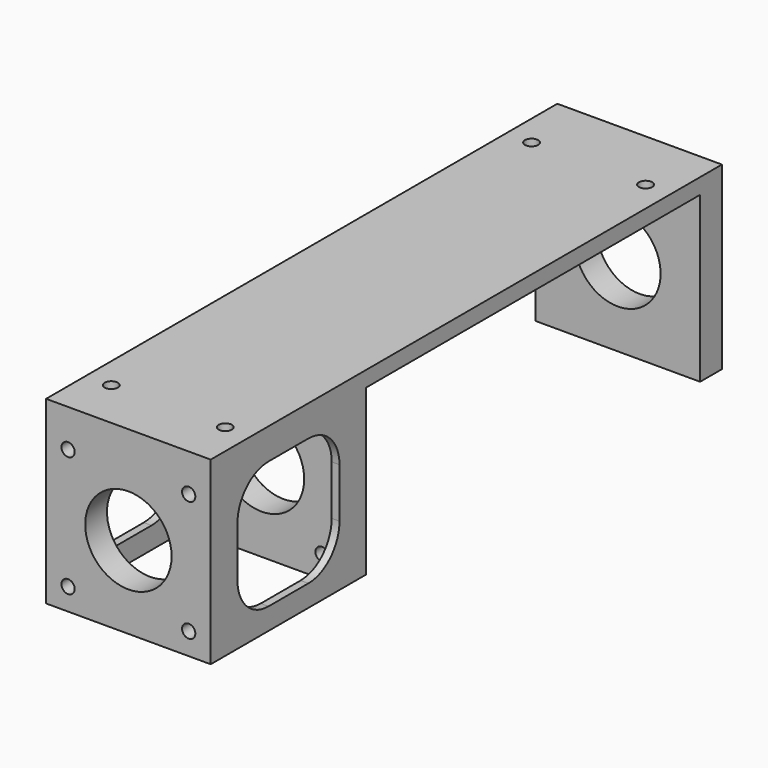
from build123d import *

# Parameters (mm, degrees)
SKETCH029_W             = 42.3
SKETCH029_H             = 164.206055
PAD013_DEPTH            = 4
SKETCH030_W             = 42.3
SKETCH030_H             = 7
PAD014_DEPTH            = 42.3
SKETCH125_W             = 2
SKETCH125_H             = 35.8216107414
PAD049_DEPTH            = 42.3
SKETCH126_R             = 1.7
SKETCH126_R_2           = 10.9177905076
POCKET019_DEPTH         = 7
SKETCH127_R             = 1.7
SKETCH127_R_2           = 11.1
POCKET020_DEPTH         = 7
POCKET021_DEPTH         = 45
SKETCH129_R             = 11
POCKET022_DEPTH         = 7
SKETCH133_R             = 1.7
POCKET026_DEPTH         = 5
BODY025_PITCH_ANGLE     = 90
BODY025_PLACEMENT_ANGLE = -90


with BuildPart() as part:
    # Sketch029 → Pad013 (new body)
    with BuildSketch(Plane.YZ):
        with Locations((0, 4.8969725)):
            Rectangle(SKETCH029_W, SKETCH029_H)
    extrude(amount=PAD013_DEPTH)

    # Sketch030 (on Face6 of Pad013) → Pad014 (join)
    with BuildSketch(Plane.YZ.offset(4)):
        with Locations((0, 40.6783892586)):
            Rectangle(SKETCH030_W, SKETCH030_H)
        with Locations((0, 83.5)):
            Rectangle(SKETCH030_W, SKETCH030_H)
        with Locations((0, -73.706055)):
            Rectangle(SKETCH030_W, SKETCH030_H)
    extrude(amount=PAD014_DEPTH)

    # Sketch125 → Pad049 (join)
    with BuildSketch(Plane.YZ.offset(4)):
        with Locations((-20.15, 62.0891946293)):
            Rectangle(SKETCH125_W, SKETCH125_H)
        with Locations((20.15, 62.0891946293)):
            Rectangle(SKETCH125_W, SKETCH125_H)
    extrude(amount=PAD049_DEPTH)

    # Sketch126 (on Face20 of Pad049) → Pocket019 (cut)
    with BuildSketch(Plane.YX.offset(-37.1783892586)):
        with Locations((-15.5, 40.65)):
            Circle(SKETCH126_R)
        with Locations((15.5, 40.65)):
            Circle(SKETCH126_R)
        with Locations((15.5, 9.65)):
            Circle(SKETCH126_R)
        with Locations((-15.5, 9.65)):
            Circle(SKETCH126_R)
        with Locations((0, 25.15)):
            Circle(SKETCH126_R_2)
    extrude(amount=-POCKET019_DEPTH, mode=Mode.SUBTRACT)

    # Sketch127 (on Face24 of Pocket019) → Pocket020 (cut)
    with BuildSketch(Plane.YX.offset(-80)):
        with Locations((-15.5, 40.65)):
            Circle(SKETCH127_R)
        with Locations((15.5, 40.65)):
            Circle(SKETCH127_R)
        with Locations((15.5, 9.65)):
            Circle(SKETCH127_R)
        with Locations((-15.5, 9.65)):
            Circle(SKETCH127_R)
        with Locations((0, 25.15)):
            Circle(SKETCH127_R_2)
    extrude(amount=-POCKET020_DEPTH, mode=Mode.SUBTRACT)

    # Sketch128 (on Face14 of Pocket020) → Pocket021 (cut)
    with BuildSketch(Plane.ZX.offset(21.15)):
        with BuildLine():
            Line((55.6372167606, 40.749451), (68.417488, 40.749451))
            ThreePointArc((78.417488, 30.749451), (75.4885558119, 37.8205188119), (68.417488, 40.749451))
            Line((78.417488, 30.749451), (78.417488, 17.9691797606))
            ThreePointArc((68.417488, 7.9691797606), (75.4885558119, 10.8981119487), (78.417488, 17.9691797606))
            Line((68.417488, 7.9691797606), (55.6372167606, 7.9691797606))
            ThreePointArc((45.6372167606, 17.9691797606), (48.5661489487, 10.8981119487), (55.6372167606, 7.9691797606))
            Line((45.6372167606, 17.9691797606), (45.6372167606, 30.749451))
            ThreePointArc((55.6372167606, 40.749451), (48.5661489487, 37.8205188119), (45.6372167606, 30.749451))
        make_face()
    extrude(amount=-POCKET021_DEPTH, mode=Mode.SUBTRACT)

    # Sketch129 (on Face30 of Pocket021) → Pocket022 (cut)
    with BuildSketch(Plane(origin=(0, 0, -70.206055), x_dir=(0, -1, 0), z_dir=(0, 0, 1))):
        with Locations((0, 25.15)):
            Circle(SKETCH129_R)
    extrude(amount=-POCKET022_DEPTH, mode=Mode.SUBTRACT)

    # Sketch133 (on Face10 of Pocket022) → Pocket026 (cut)
    with BuildSketch(Plane.YZ.offset(4)):
        with Locations((-14.6419561845, 74.184478)):
            Circle(SKETCH133_R)
        with Locations((14.6419561845, 74.184478)):
            Circle(SKETCH133_R)
        with Locations((14.6419561845, -60.815522)):
            Circle(SKETCH133_R)
        with Locations((-14.6419561845, -60.815522)):
            Circle(SKETCH133_R)
    extrude(amount=-POCKET026_DEPTH, mode=Mode.SUBTRACT)


with BuildPart() as part_1:
    # Body025 pitch: moved
    add(part.part.rotate(Axis((0, 0, 0), (0, 1, 0)), BODY025_PITCH_ANGLE))


with BuildPart() as part_2:
    # Body025 placement: moved
    add(part_1.part.moved(Location((68, -1.5, 23))).rotate(Axis((68, -1.5, 23), (0, 0, 1)), BODY025_PLACEMENT_ANGLE))


solid = part_2.part
